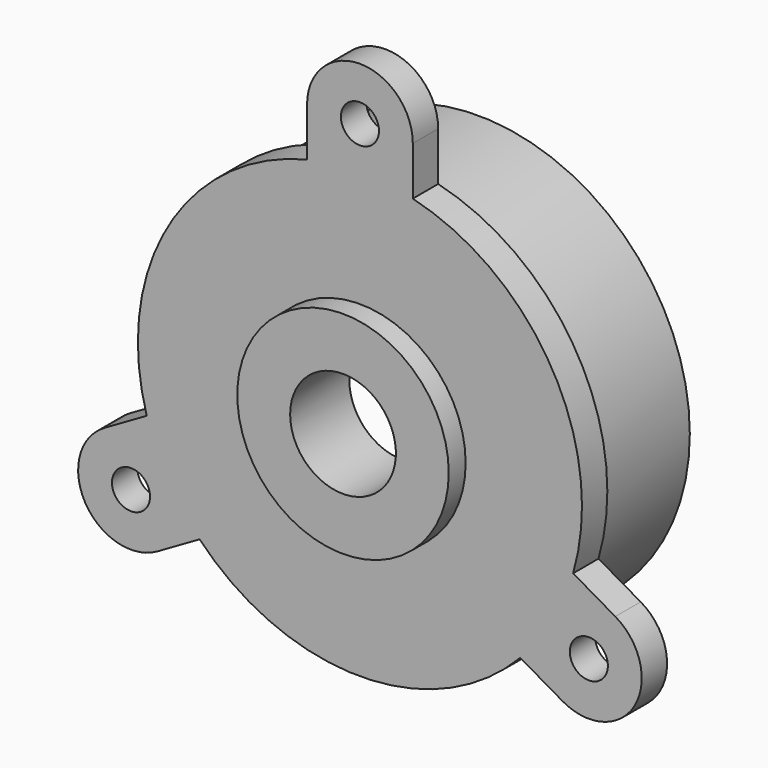
from build123d import *

# Parameters (mm, degrees)
F0_R      = 21
F1_DEPTH  = 3
F2_R      = 3.35
F2_R_2    = 1.8
F3_DEPTH  = 3
F4_R      = 20
F4_R_2    = 17
F5_DEPTH  = 11
F6_R      = 6
F6_R_2    = 5
F7_DEPTH  = 2
F8_R      = 10
F9_DEPTH  = 2
F10_R     = 5
F11_DEPTH = 46.6


with BuildPart() as f1:
    # F0 (on Front) → F1 (new body)
    with BuildSketch(Plane.XZ):
        Circle(F0_R)
    extrude(amount=F1_DEPTH)

    # F2 (on face) → F3 (join)
    with BuildSketch(Plane.XZ.offset(3)):
        with BuildLine():
            Line((5, 20.3960780544), (5, 25))
            ThreePointArc((5, 25), (0, 30), (-5, 25))
            Line((-5, 25), (-5, 20.3960780544))
            ThreePointArc((-5, 20.3960780544), (0, 21), (5, 20.3960780544))
        make_face()
        with Locations((0, 25)):
            Circle(F2_R, mode=Mode.SUBTRACT)
        with BuildLine():
            Line((24.1506350946, -8.1698729811), (20.1635217327, -5.8679120083))
            ThreePointArc((20.1635217327, -5.8679120083), (18.1865334795, -10.5), (15.1635217327, -14.5281660461))
            Line((15.1635217327, -14.5281660461), (19.1506350946, -16.8301270189))
            ThreePointArc((19.1506350946, -16.8301270189), (25.9807621135, -15), (24.1506350946, -8.1698729811))
        make_face()
        with Locations((21.6506350946, -12.5)):
            Circle(F2_R, mode=Mode.SUBTRACT)
        with BuildLine():
            ThreePointArc((-15.1635217327, -14.5281660461), (-18.1865334795, -10.5), (-20.1635217327, -5.8679120083))
            Line((-20.1635217327, -5.8679120083), (-24.1506350946, -8.1698729811))
            ThreePointArc((-24.1506350946, -8.1698729811), (-25.9807621135, -15), (-19.1506350946, -16.8301270189))
            Line((-19.1506350946, -16.8301270189), (-15.1635217327, -14.5281660461))
        make_face()
        with Locations((-21.6506350946, -12.5)):
            Circle(F2_R, mode=Mode.SUBTRACT)
        with Locations((0, 25)):
            Circle(F2_R)
        with Locations((0, 25)):
            Circle(F2_R_2, mode=Mode.SUBTRACT)
        with Locations((-21.6506350946, -12.5)):
            Circle(F2_R)
        with Locations((-21.6506350946, -12.5)):
            Circle(F2_R_2, mode=Mode.SUBTRACT)
        with Locations((21.6506350946, -12.5)):
            Circle(F2_R)
        with Locations((21.6506350946, -12.5)):
            Circle(F2_R_2, mode=Mode.SUBTRACT)
    extrude(amount=-F3_DEPTH)

    # F4 (on face) → F5 (join)
    with BuildSketch(Plane(origin=(0, 0, 0), x_dir=(-1, 0, 0), z_dir=(0, 1, 0))):
        Circle(F4_R)
        Circle(F4_R_2, mode=Mode.SUBTRACT)
    extrude(amount=F5_DEPTH)

    # F6 (on Front) → F7 (join)
    with BuildSketch(Plane.XZ):
        Circle(F6_R)
        Circle(F6_R_2, mode=Mode.SUBTRACT)
        Circle(F6_R_2)
    extrude(amount=-F7_DEPTH)

    # F8 (on face) → F9 (join)
    with BuildSketch(Plane.XZ.offset(3)):
        Circle(F8_R)
    extrude(amount=F9_DEPTH)

    # F10 (on face) → F11 (cut)
    with BuildSketch(Plane(origin=(0, 2, 0), x_dir=(-1, 0, 0), z_dir=(0, 1, 0))):
        Circle(F10_R)
    extrude(amount=-F11_DEPTH, mode=Mode.SUBTRACT)


solid = f1.part
